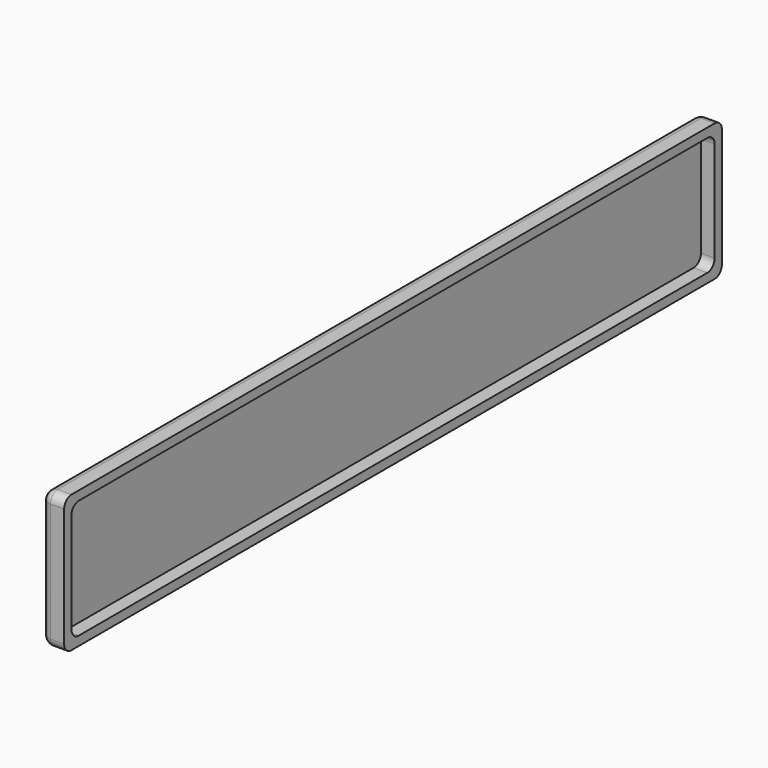
from build123d import *

# Parameters (mm, degrees)
BOX007_W          = 3
BOX007_H          = 176
BOX007_DEPTH      = 26
FILLET003_R       = 2
BOX005_W          = 2
BOX005_H          = 176
BOX005_DEPTH      = 26
CYLINDER021_R     = 2
CYLINDER021_DEPTH = 26
CYLINDER022_R     = 2
CYLINDER022_DEPTH = 26
CYLINDER023_R     = 2
CYLINDER023_DEPTH = 176
CYLINDER024_R     = 2
CYLINDER024_DEPTH = 176
BOX006_W          = 3
BOX006_H          = 180
BOX006_DEPTH      = 30
FILLET002_R       = 2


with BuildPart() as fillet003:
    # Box007 → Box007 (new body)
    with BuildSketch(Plane(origin=(7, 2, 2), x_dir=(1, 0, 0), z_dir=(0, 0, 1))):
        with Locations((1.5, 88)):
            Rectangle(BOX007_W, BOX007_H)
    extrude(amount=BOX007_DEPTH)

    # Fillet003
    fillet003_edges = [fillet003.edges().sort_by_distance(p)[0] for p in [
        (8.5, 2, 2),
        (8.5, 2, 28),
        (8.5, 178, 2),
        (8.5, 178, 28),
    ]]
    fillet(fillet003_edges, radius=FILLET003_R)


with BuildPart() as fillet003_1:
    # Fillet003 placement: moved
    add(fillet003.part.moved(Location((-5, 0, 0))))


with BuildPart() as cube005:
    # Box005 → Box005 (new body)
    with BuildSketch(Plane(origin=(0, 2, 2), x_dir=(1, 0, 0), z_dir=(0, 0, 1))):
        with Locations((1, 88)):
            Rectangle(BOX005_W, BOX005_H)
    extrude(amount=BOX005_DEPTH)


with BuildPart() as cylinder021:
    # Cylinder021 → Cylinder021 (new body)
    with BuildSketch(Plane(origin=(2, 2, 2), x_dir=(0, 1, 0), z_dir=(0, 0, 1))):
        Circle(CYLINDER021_R)
    extrude(amount=CYLINDER021_DEPTH)


with BuildPart() as cylinder022:
    # Cylinder022 → Cylinder022 (new body)
    with BuildSketch(Plane(origin=(2, 178, 2), x_dir=(0, 1, 0), z_dir=(0, 0, 1))):
        Circle(CYLINDER022_R)
    extrude(amount=CYLINDER022_DEPTH)


with BuildPart() as cylinder023:
    # Cylinder023 → Cylinder023 (new body)
    with BuildSketch(Plane(origin=(2, 178, 2), x_dir=(1, 0, 0), z_dir=(0, -1, 0))):
        Circle(CYLINDER023_R)
    extrude(amount=CYLINDER023_DEPTH)


with BuildPart() as cylinder024:
    # Cylinder024 → Cylinder024 (new body)
    with BuildSketch(Plane(origin=(2, 178, 28), x_dir=(1, 0, 0), z_dir=(0, -1, 0))):
        Circle(CYLINDER024_R)
    extrude(amount=CYLINDER024_DEPTH)


with BuildPart() as sphere005:
    # Sphere004 → Sphere004 (revolve)
    with BuildSketch(Plane(origin=(2, 2, 2), x_dir=(1, 0, 0), z_dir=(0, -1, 0))):
        with BuildLine():
            ThreePointArc((0, -2), (2, 0), (0, 2))
            Line((0, 2), (0, -2))
        make_face()
    revolve(axis=Axis((2, 2, 2), (0, 0, 1)))


with BuildPart() as sphere006:
    # Sphere005 → Sphere005 (revolve)
    with BuildSketch(Plane(origin=(2, 178, 2), x_dir=(1, 0, 0), z_dir=(0, -1, 0))):
        with BuildLine():
            ThreePointArc((0, -2), (2, 0), (0, 2))
            Line((0, 2), (0, -2))
        make_face()
    revolve(axis=Axis((2, 178, 2), (0, 0, 1)))


with BuildPart() as sphere007:
    # Sphere006 → Sphere006 (revolve)
    with BuildSketch(Plane(origin=(2, 2, 28), x_dir=(1, 0, 0), z_dir=(0, -1, 0))):
        with BuildLine():
            ThreePointArc((0, -2), (2, 0), (0, 2))
            Line((0, 2), (0, -2))
        make_face()
    revolve(axis=Axis((2, 2, 28), (0, 0, 1)))


with BuildPart() as sphere008:
    # Sphere007 → Sphere007 (revolve)
    with BuildSketch(Plane(origin=(2, 178, 28), x_dir=(1, 0, 0), z_dir=(0, -1, 0))):
        with BuildLine():
            ThreePointArc((0, -2), (2, 0), (0, 2))
            Line((0, 2), (0, -2))
        make_face()
    revolve(axis=Axis((2, 178, 28), (0, 0, 1)))


with BuildPart() as cut027:
    # Box006 → Box006 (new body)
    with BuildSketch(Plane(origin=(2, 0, 0), x_dir=(1, 0, 0), z_dir=(0, 0, 1))):
        with Locations((1.5, 90)):
            Rectangle(BOX006_W, BOX006_H)
    extrude(amount=BOX006_DEPTH)

    # Fillet002
    fillet002_edges = [cut027.edges().sort_by_distance(p)[0] for p in [
        (3.5, 0, 0),
        (3.5, 0, 30),
        (3.5, 180, 0),
        (3.5, 180, 30),
    ]]
    fillet(fillet002_edges, radius=FILLET002_R)

    # Fusion001: union Cube005, Cylinder021, Cylinder022, Cylinder023, Cylinder024, Sphere005, Sphere006, Sphere007, Sphere008
    add(cube005.part)
    add(cylinder021.part)
    add(cylinder022.part)
    add(cylinder023.part)
    add(cylinder024.part)
    add(sphere005.part)
    add(sphere006.part)
    add(sphere007.part)
    add(sphere008.part)

    # Cut027: cut Fillet003
    add(fillet003_1.part, mode=Mode.SUBTRACT)


solid = cut027.part
